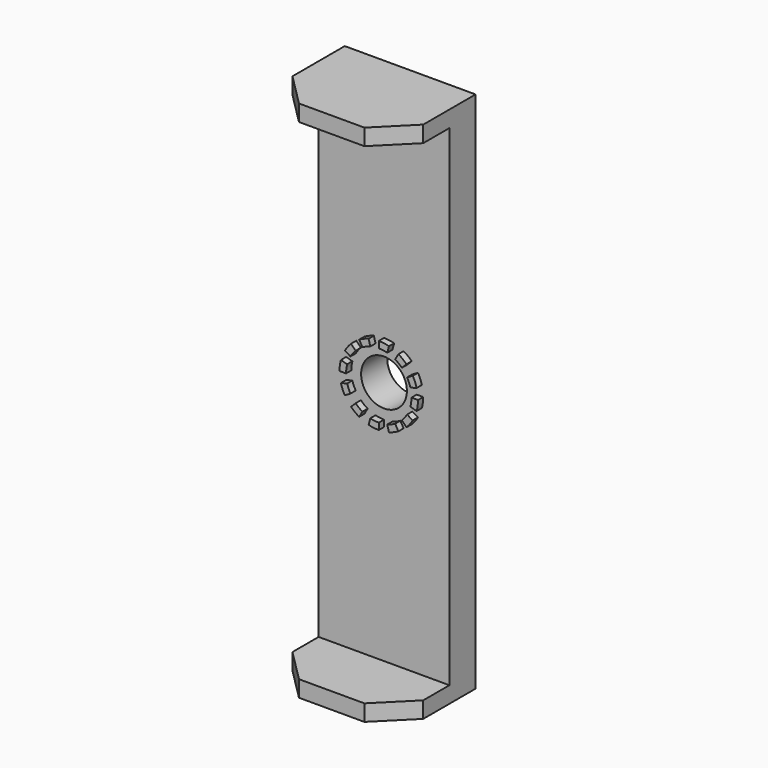
from build123d import *

# Parameters (mm, degrees)
F0_W     = 50.8
F0_H     = 203.2
F0_R     = 8.89
F1_DEPTH = 12.7
F3_DEPTH = 2.54
F4_W     = 50.8
F4_H     = 6.35
F5_DEPTH = 25.4
F6_SIZE  = 12.7


with BuildPart() as f1:
    # F0 (on Front) → F1 (new body)
    with BuildSketch(Plane.XZ):
        Rectangle(F0_W, F0_H)
        Circle(F0_R, mode=Mode.SUBTRACT)
    extrude(amount=F1_DEPTH)

    # F2 (on face) → F3 (join)
    with BuildSketch(Plane.XZ.offset(12.7)):
        with BuildLine():
            Line((-13.1982271537, 7.62), (-10.9985226281, 6.35))
            ThreePointArc((-10.9985226281, 6.35), (-10.0755874217, 7.7312701484), (-8.9802561211, 8.9802561211))
            Line((-8.9802561211, 8.9802561211), (-10.7763073453, 10.7763073453))
            ThreePointArc((-10.7763073453, 10.7763073453), (-12.090704906, 9.2775241781), (-13.1982271537, 7.62))
        make_face()
        with BuildLine():
            Line((-15.24, 0), (-12.7, 0))
            ThreePointArc((-12.7, 0), (-12.5913497394, 1.6576826412), (-12.2672579939, 3.2870018728))
            Line((-12.2672579939, 3.2870018728), (-14.7207095926, 3.9444022474))
            ThreePointArc((-14.7207095926, 3.9444022474), (-15.1096196873, 1.9892191694), (-15.24, 0))
        make_face()
        with BuildLine():
            Line((-13.1982271537, -7.62), (-10.9985226281, -6.35))
            ThreePointArc((-10.9985226281, -6.35), (-11.7332700629, -4.860079591), (-12.2672579939, -3.2870018728))
            Line((-12.2672579939, -3.2870018728), (-14.7207095926, -3.9444022474))
            ThreePointArc((-14.7207095926, -3.9444022474), (-14.0799240755, -5.8320955092), (-13.1982271537, -7.62))
        make_face()
        with BuildLine():
            Line((-7.62, -13.1982271537), (-6.35, -10.9985226281))
            ThreePointArc((-6.35, -10.9985226281), (-7.7312701484, -10.0755874217), (-8.9802561211, -8.9802561211))
            Line((-8.9802561211, -8.9802561211), (-10.7763073453, -10.7763073453))
            ThreePointArc((-10.7763073453, -10.7763073453), (-9.2775241781, -12.090704906), (-7.62, -13.1982271537))
        make_face()
        with BuildLine():
            Line((0, -15.24), (0, -12.7))
            ThreePointArc((0, -12.7), (-1.6576826412, -12.5913497394), (-3.2870018728, -12.2672579939))
            Line((-3.2870018728, -12.2672579939), (-3.9444022474, -14.7207095926))
            ThreePointArc((-3.9444022474, -14.7207095926), (-1.9892191694, -15.1096196873), (0, -15.24))
        make_face()
        with BuildLine():
            Line((7.62, -13.1982271537), (6.35, -10.9985226281))
            ThreePointArc((6.35, -10.9985226281), (4.860079591, -11.7332700629), (3.2870018728, -12.2672579939))
            Line((3.2870018728, -12.2672579939), (3.9444022474, -14.7207095926))
            ThreePointArc((3.9444022474, -14.7207095926), (5.8320955092, -14.0799240755), (7.62, -13.1982271537))
        make_face()
        with BuildLine():
            Line((13.1982271537, -7.62), (10.9985226281, -6.35))
            ThreePointArc((10.9985226281, -6.35), (10.0755874217, -7.7312701484), (8.9802561211, -8.9802561211))
            Line((8.9802561211, -8.9802561211), (10.7763073453, -10.7763073453))
            ThreePointArc((10.7763073453, -10.7763073453), (12.090704906, -9.2775241781), (13.1982271537, -7.62))
        make_face()
        with BuildLine():
            Line((15.24, 0), (12.7, 0))
            ThreePointArc((12.7, 0), (12.5913497394, -1.6576826412), (12.2672579939, -3.2870018728))
            Line((12.2672579939, -3.2870018728), (14.7207095926, -3.9444022474))
            ThreePointArc((14.7207095926, -3.9444022474), (15.1096196873, -1.9892191694), (15.24, 0))
        make_face()
        with BuildLine():
            ThreePointArc((10.9985226281, 6.35), (11.7332700629, 4.860079591), (12.2672579939, 3.2870018728))
            Line((12.2672579939, 3.2870018728), (14.7207095926, 3.9444022474))
            ThreePointArc((14.7207095926, 3.9444022474), (14.0799240755, 5.8320955092), (13.1982271537, 7.62))
            Line((13.1982271537, 7.62), (10.9985226281, 6.35))
        make_face()
        with BuildLine():
            Line((7.62, 13.1982271537), (6.35, 10.9985226281))
            ThreePointArc((6.35, 10.9985226281), (7.7312701484, 10.0755874217), (8.9802561211, 8.9802561211))
            Line((8.9802561211, 8.9802561211), (10.7763073453, 10.7763073453))
            ThreePointArc((10.7763073453, 10.7763073453), (9.2775241781, 12.090704906), (7.62, 13.1982271537))
        make_face()
        with BuildLine():
            Line((0, 15.24), (0, 12.7))
            ThreePointArc((0, 12.7), (1.6576826412, 12.5913497394), (3.2870018728, 12.2672579939))
            Line((3.2870018728, 12.2672579939), (3.9444022474, 14.7207095926))
            ThreePointArc((3.9444022474, 14.7207095926), (1.9892191694, 15.1096196873), (0, 15.24))
        make_face()
        with BuildLine():
            Line((-7.62, 13.1982271537), (-6.35, 10.9985226281))
            ThreePointArc((-6.35, 10.9985226281), (-4.860079591, 11.7332700629), (-3.2870018728, 12.2672579939))
            Line((-3.2870018728, 12.2672579939), (-3.9444022474, 14.7207095926))
            ThreePointArc((-3.9444022474, 14.7207095926), (-5.8320955092, 14.0799240755), (-7.62, 13.1982271537))
        make_face()
    extrude(amount=F3_DEPTH)

    # F4 (on face) → F5 (join)
    with BuildSketch(Plane.XZ.offset(12.7)):
        with Locations((0, 98.425)):
            Rectangle(F4_W, F4_H)
        with Locations((0, -98.425)):
            Rectangle(F4_W, F4_H)
    extrude(amount=F5_DEPTH)

    # F6
    f6_edges = [f1.edges().sort_by_distance(p)[0] for p in [
        (-25.4, -38.1, -98.425),
        (25.4, -38.1, -98.425),
        (25.4, -38.1, 98.425),
        (-25.4, -38.1, 98.425),
    ]]
    chamfer(f6_edges, length=F6_SIZE)


solid = f1.part
